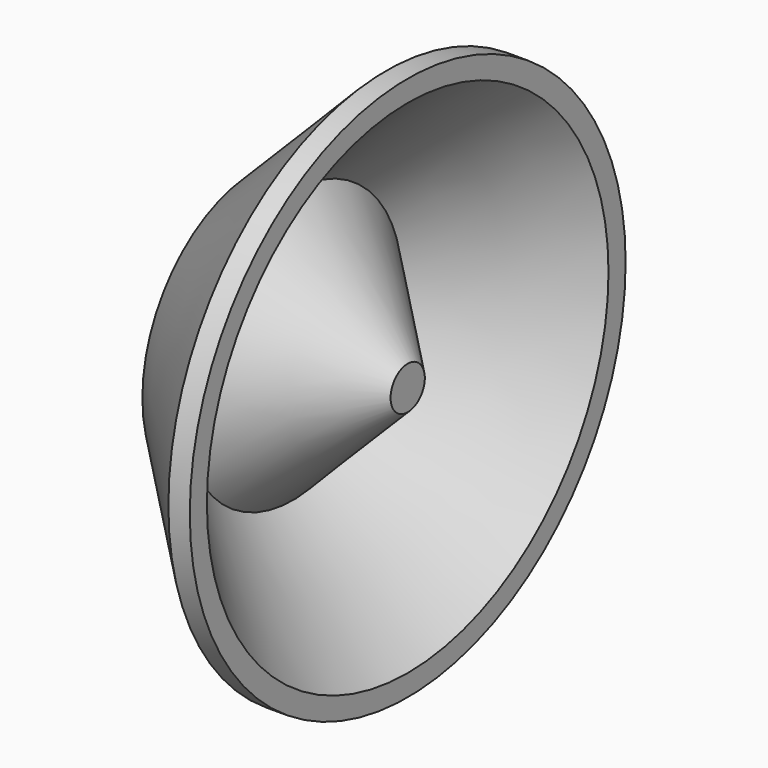
from build123d import *


with BuildPart() as f1:
    # F0 (on Top) → F1 (revolve)
    with BuildSketch(Plane.XY):
        Polygon((20, 0), (17.171573, 0), (0, -17.171573), (0, -18.828427), (17.171573, -36), (20, -36), (20, -33.171573), (4.828427, -18), (20, -2.828427), align=None)
    revolve(axis=Axis((18.585786, 0, 0), (-1, 0, 0)))


solid = f1.part
